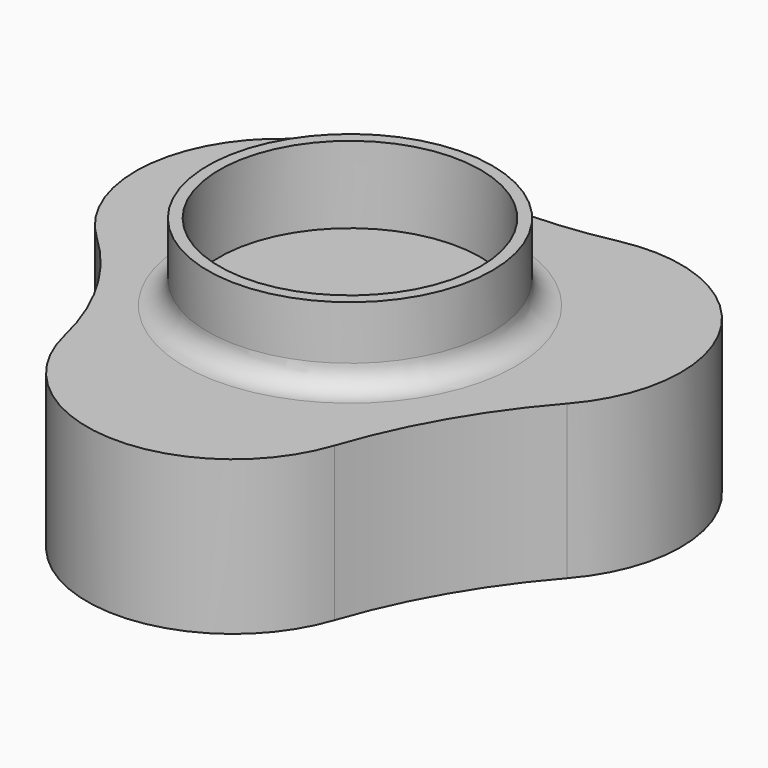
from build123d import *

# Parameters (mm, degrees)
PAD_DEPTH     = 20
SKETCH001_R   = 18.5
SKETCH001_R_2 = 17
PAD001_DEPTH  = 10
FILLET_R      = 3


with BuildPart() as part:
    # Sketch (on XY_Plane of Origin) → Pad (new body)
    with BuildSketch(Plane.XY):
        with BuildLine():
            ThreePointArc((30.707978, -3.063362), (32.870408, 19.066483), (12.550484, 28.094595))
            ThreePointArc((-12.550484, 28.094595), (0, 26.791295), (12.550484, 28.094595))
            ThreePointArc((-12.550484, 28.094595), (-33.317775, 18.253831), (-29.415109, -4.393248))
            ThreePointArc((-18.512219, -23.277607), (-22.553443, -13.021236), (-29.415109, -4.393248))
            ThreePointArc((-18.512219, -23.277607), (-0.927377, -37.977359), (18.006938, -25.062208))
            ThreePointArc((30.707978, -3.063362), (23.26018, -13.429271), (18.006938, -25.062208))
        make_face()
    extrude(amount=PAD_DEPTH)

    # Sketch001 (on Face8 of Pad) → Pad001 (join)
    with BuildSketch(Plane.XY.offset(20)):
        Circle(SKETCH001_R)
        Circle(SKETCH001_R_2, mode=Mode.SUBTRACT)
    extrude(amount=PAD001_DEPTH)

    # Fillet
    fillet_edges = [part.edges().sort_by_distance(p)[0] for p in [
        (-18.5, 0, 20),
    ]]
    fillet(fillet_edges, radius=FILLET_R)


solid = part.part
